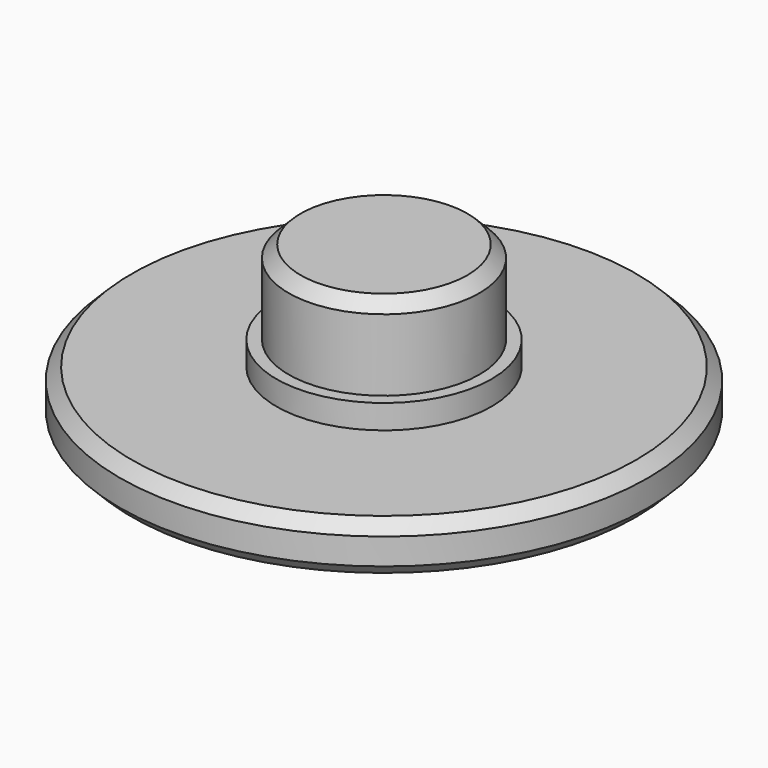
from build123d import *

# Parameters (mm, degrees)
F0_R     = 11.05
F1_DEPTH = 2.1
F2_R     = 4.5
F3_DEPTH = 1.01
F4_R     = 3.99
F5_DEPTH = 3.5
F6_SIZE  = 0.5


with BuildPart() as f1:
    # F0 (on Top) → F1 (new body)
    with BuildSketch(Plane.XY):
        Circle(F0_R)
    extrude(amount=F1_DEPTH)

    # F2 (on face) → F3 (join)
    with BuildSketch(Plane.XY.offset(2.1)):
        Circle(F2_R)
    extrude(amount=F3_DEPTH)

    # F4 (on face) → F5 (join)
    with BuildSketch(Plane.XY.offset(3.11)):
        Circle(F4_R)
    extrude(amount=F5_DEPTH)

    # F6
    f6_edges = [f1.edges().sort_by_distance(p)[0] for p in [
        (-11.05, 0, 2.1),
        (-3.99, 0, 6.61),
        (-11.05, 0, 0),
    ]]
    chamfer(f6_edges, length=F6_SIZE)


solid = f1.part
